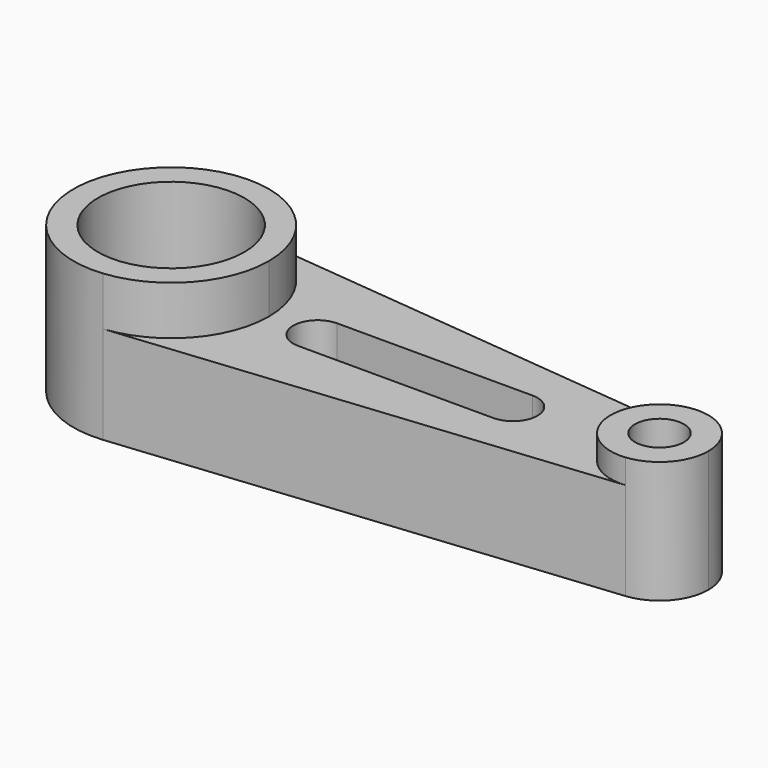
from build123d import *

# Parameters (mm, degrees)
F0_R     = 19.05
F1_DEPTH = 38.1
F0_R_2   = 6.35
F2_DEPTH = 31.75
F3_DEPTH = 25.4


with BuildPart() as f1:
    # F0 (on Top) → F1 (new body)
    with BuildSketch(Plane.XY):
        with BuildLine():
            ThreePointArc((-35.56, -25.272681), (-19.262856, -17.038838), (-12.7, 0))
            ThreePointArc((-12.7, 0), (-19.262856, 17.038838), (-35.56, 25.272681))
            ThreePointArc((-35.56, 25.272681), (-63.5, 0), (-35.56, -25.272681))
        make_face()
        with Locations((-38.1, 0)):
            Circle(F0_R, mode=Mode.SUBTRACT)
    extrude(amount=F1_DEPTH)


with BuildPart() as f2:
    # F0 (on Top) → F2 (new body)
    with BuildSketch(Plane.XY):
        with BuildLine():
            ThreePointArc((101.6, 0), (98.318572, 8.519419), (90.17, 12.63634))
            ThreePointArc((90.17, 12.63634), (76.2, 0), (90.17, -12.63634))
            ThreePointArc((90.17, -12.63634), (98.318572, -8.519419), (101.6, 0))
        make_face()
        with Locations((88.9, 0)):
            Circle(F0_R_2, mode=Mode.SUBTRACT)
    extrude(amount=F2_DEPTH)


with BuildPart() as f3:
    # F0 (on Top) → F3 (new body)
    with BuildSketch(Plane.XY):
        with BuildLine():
            ThreePointArc((-35.56, 25.272681), (-19.262856, 17.038838), (-12.7, 0))
            ThreePointArc((-12.7, 0), (-19.262856, -17.038838), (-35.56, -25.272681))
            Line((-35.56, -25.272681), (90.17, -12.63634))
            ThreePointArc((90.17, -12.63634), (76.2, 0), (90.17, 12.63634))
            Line((90.17, 12.63634), (-35.56, 25.272681))
        make_face()
        with BuildLine():
            ThreePointArc((0, -6.35), (-6.35, 0), (0, 6.35))
            Line((0, 6.35), (50.8, 6.35))
            ThreePointArc((50.8, 6.35), (57.15, 0), (50.8, -6.35))
            Line((50.8, -6.35), (0, -6.35))
        make_face(mode=Mode.SUBTRACT)
    extrude(amount=F3_DEPTH)


solid = Compound([f1.part, f2.part, f3.part])
